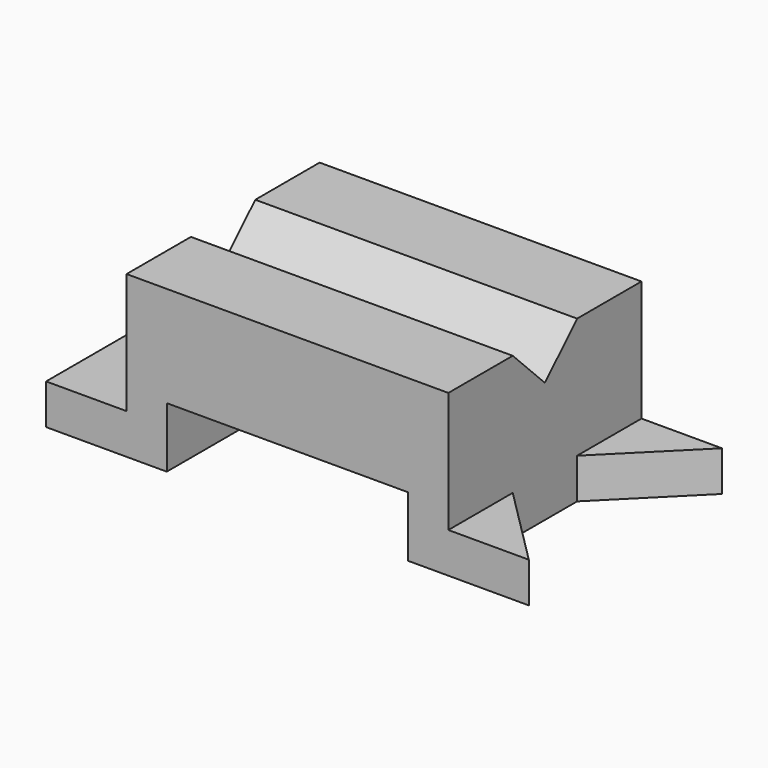
from build123d import *

# Parameters (mm, degrees)
F0_W      = 152.4
F0_H      = 50.8
F1_DEPTH  = 76.2
F3_DEPTH  = 203.2
F4_W      = 25.4
F4_H      = 38.1
F5_DEPTH  = 101.6
F6_W      = 25.4
F6_H      = 38.1
F7_DEPTH  = 101.6
F8_W      = 25.4
F8_H      = 25.4
F9_DEPTH  = 25.4
F10_W     = 76.2
F10_H     = 19.05
F11_DEPTH = 127


with BuildPart() as f1:
    # F0 (on Front) → F1 (new body)
    with BuildSketch(Plane.XZ):
        with Locations((76.2, 25.4)):
            Rectangle(F0_W, F0_H)
    extrude(amount=F1_DEPTH)

    # F2 (on face) → F3 (cut)
    with BuildSketch(Plane.YZ.offset(152.4)):
        Polygon((-38.1, 50.8), (-50.8, 50.8), (-38.1, 38.1), align=None)
        Polygon((-38.1, 50.8), (-38.1, 38.1), (-25.4, 50.8), align=None)
    extrude(amount=-F3_DEPTH, mode=Mode.SUBTRACT)

    # F4 (on face) → F5 (cut)
    with BuildSketch(Plane.XZ.offset(76.2)):
        with Locations((12.7, 31.75)):
            Rectangle(F4_W, F4_H)
    extrude(amount=-F5_DEPTH, mode=Mode.SUBTRACT)

    # F6 (on face) → F7 (cut)
    with BuildSketch(Plane.XZ.offset(76.2)):
        with Locations((139.7, 31.75)):
            Rectangle(F6_W, F6_H)
    extrude(amount=-F7_DEPTH, mode=Mode.SUBTRACT)

    # F8 (on face) → F9 (cut)
    with BuildSketch(Plane.XY.offset(12.7)):
        Polygon((152.4, -76.2), (152.4, -50.8), (127, -50.8), align=None)
        with Locations((139.7, -38.1)):
            Rectangle(F8_W, F8_H)
        Polygon((152.4, -25.4), (152.4, 0), (127, -25.4), align=None)
    extrude(amount=-F9_DEPTH, mode=Mode.SUBTRACT)

    # F10 (on face) → F11 (cut)
    with BuildSketch(Plane.XZ.offset(76.2)):
        with Locations((76.2, 9.525)):
            Rectangle(F10_W, F10_H)
    extrude(amount=-F11_DEPTH, mode=Mode.SUBTRACT)


solid = f1.part
